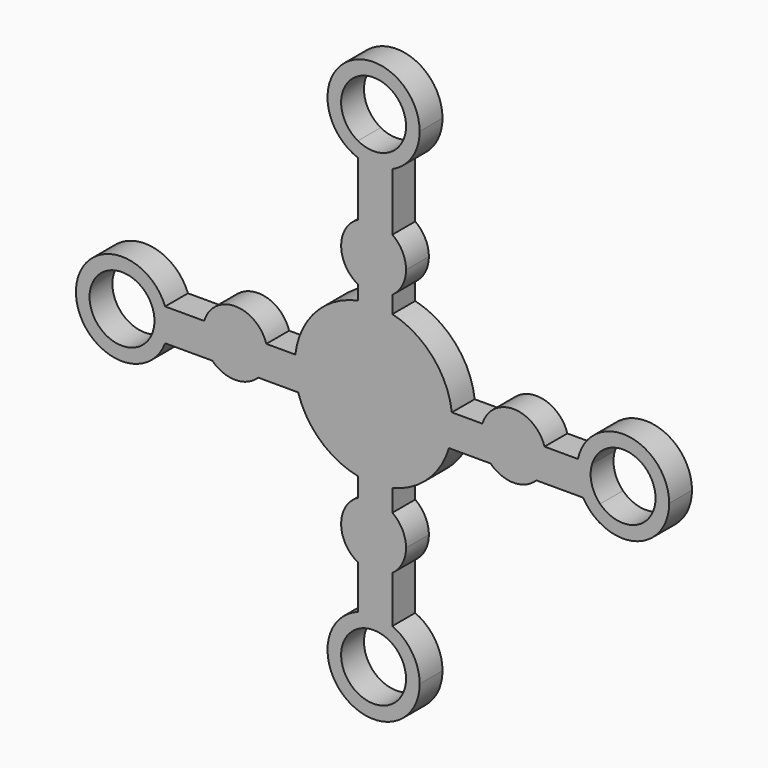
from build123d import *

# Parameters (mm, degrees)
F1_DEPTH = 7.874


with BuildPart() as f1:
    # F0 (on Front) → F1 (new body)
    with BuildSketch(Plane.XZ):
        with BuildLine():
            Line((-4.3170880526, 2.5902516209), (-4.3170880526, 0))
            Line((-4.3170880526, 0), (5.18050557, 0))
            Line((5.18050557, 0), (5.18050557, 2.5902516209))
            Line((5.18050557, 2.5902516209), (5.18050557, 21.1036454269))
            ThreePointArc((5.18050557, 21.1036454269), (0.4424065531, 21.7256936531), (-4.3170880526, 21.2970476595))
            Line((-4.3170880526, 21.2970476595), (-4.3170880526, 2.5902516209))
        make_face()
        with BuildLine():
            Line((-4.3170880526, -6.3317269087), (-4.3170880526, 0))
            Line((-4.3170880526, 0), (-4.3170880526, 2.5902516209))
            Line((-4.3170880526, 2.5902516209), (-21.5752655791, 2.5902516209))
            ThreePointArc((-21.5752655791, 2.5902516209), (-21.6459371683, -1.911777281), (-20.7872730925, -6.3317269087))
            Line((-20.7872730925, -6.3317269087), (-4.3170880526, -6.3317269087))
        make_face()
        with BuildLine():
            Line((5.18050557, 0), (-4.3170880526, 0))
            Line((-4.3170880526, 0), (-4.3170880526, -6.3317269087))
            Line((-4.3170880526, -6.3317269087), (-4.3170880526, -21.2970476595))
            ThreePointArc((-4.3170880526, -21.2970476595), (0.4424065531, -21.7256936531), (5.18050557, -21.1036454269))
            Line((5.18050557, -21.1036454269), (5.18050557, -6.3317269087))
            Line((5.18050557, -6.3317269087), (5.18050557, 0))
        make_face()
        with BuildLine():
            Line((5.18050557, 2.5902516209), (5.18050557, 0))
            Line((5.18050557, 0), (5.18050557, -6.3317269087))
            Line((5.18050557, -6.3317269087), (20.7872730925, -6.3317269087))
            ThreePointArc((20.7872730925, -6.3317269087), (21.4931738046, -3.2007761674), (21.7301976122, 0))
            ThreePointArc((21.7301976122, 0), (21.6914300224, 1.297440499), (21.5752655791, 2.5902516209))
            Line((21.5752655791, 2.5902516209), (5.18050557, 2.5902516209))
        make_face()
        with BuildLine():
            Line((-21.5752655791, 2.5902516209), (-4.3170880526, 2.5902516209))
            Line((-4.3170880526, 2.5902516209), (-4.3170880526, 21.2970476595))
            ThreePointArc((-4.3170880526, 21.2970476595), (-15.9715230537, 14.7347188508), (-21.5752655791, 2.5902516209))
        make_face()
        with BuildLine():
            Line((-4.3170880526, -21.2970476595), (-4.3170880526, -6.3317269087))
            Line((-4.3170880526, -6.3317269087), (-20.7872730925, -6.3317269087))
            ThreePointArc((-20.7872730925, -6.3317269087), (-14.6132625864, -16.0827250442), (-4.3170880526, -21.2970476595))
        make_face()
        with BuildLine():
            Line((5.18050557, 21.1036454269), (5.18050557, 2.5902516209))
            Line((5.18050557, 2.5902516209), (21.5752655791, 2.5902516209))
            ThreePointArc((21.5752655791, 2.5902516209), (16.2681978105, 14.4064995147), (5.18050557, 21.1036454269))
        make_face()
        with BuildLine():
            Line((20.7872730925, -6.3317269087), (5.18050557, -6.3317269087))
            Line((5.18050557, -6.3317269087), (5.18050557, -21.1036454269))
            ThreePointArc((5.18050557, -21.1036454269), (14.9376630148, -15.7818792266), (20.7872730925, -6.3317269087))
        make_face()
        with BuildLine():
            Line((-4.3170880526, 25.2618949621), (-4.3170880526, 21.2970476595))
            ThreePointArc((-4.3170880526, 21.2970476595), (0.4424065531, 21.7256936531), (5.18050557, 21.1036454269))
            Line((5.18050557, 21.1036454269), (5.18050557, 25.8039073839))
            ThreePointArc((5.18050557, 25.8039073839), (0.5097222957, 24.1658829253), (-4.3170880526, 25.2618949621))
        make_face()
        with BuildLine():
            ThreePointArc((-20.7872730925, -6.3317269087), (-21.6459371683, -1.911777281), (-21.5752655791, 2.5902516209))
            Line((-21.5752655791, 2.5902516209), (-29.5711408342, 2.5902516209))
            ThreePointArc((-29.5711408342, 2.5902516209), (-29.2842683913, 1.3092207994), (-29.1879529597, 0))
            ThreePointArc((-29.1879529597, 0), (-29.870502249, -3.4273494116), (-31.814001381, -6.3317269087))
            Line((-31.814001381, -6.3317269087), (-20.7872730925, -6.3317269087))
        make_face()
        with BuildLine():
            ThreePointArc((5.18050557, -21.1036454269), (0.4424065531, -21.7256936531), (-4.3170880526, -21.2970476595))
            Line((-4.3170880526, -21.2970476595), (-4.3170880526, -26.5570219367))
            ThreePointArc((-4.3170880526, -26.5570219367), (0.5097222957, -25.4610098999), (5.18050557, -27.0990343585))
            Line((5.18050557, -27.0990343585), (5.18050557, -21.1036454269))
        make_face()
        with BuildLine():
            Line((30.0028470318, 2.5902516209), (21.5752655791, 2.5902516209))
            ThreePointArc((21.5752655791, 2.5902516209), (21.6914300224, 1.297440499), (21.7301976122, 0))
            ThreePointArc((21.7301976122, 0), (21.4931738046, -3.2007761674), (20.7872730925, -6.3317269087))
            Line((20.7872730925, -6.3317269087), (32.2457075785, -6.3317269087))
            ThreePointArc((32.2457075785, -6.3317269087), (29.8896105664, -2.1811155839), (30.0028470318, 2.5902516209))
        make_face()
        with BuildLine():
            ThreePointArc((-4.3170880526, 40.9334291012), (-8.9463118, 33.0976620317), (-4.3170880526, 25.2618949621))
            Line((-4.3170880526, 25.2618949621), (-4.3170880526, 40.9334291012))
        make_face()
        with BuildLine():
            Line((-4.3170880526, 40.9334291012), (-4.3170880526, 25.2618949621))
            ThreePointArc((-4.3170880526, 25.2618949621), (0.5097222957, 24.1658829253), (5.18050557, 25.8039073839))
            Line((5.18050557, 25.8039073839), (5.18050557, 40.3914166794))
            ThreePointArc((5.18050557, 40.3914166794), (0.5097222957, 42.029441138), (-4.3170880526, 40.9334291012))
        make_face()
        with BuildLine():
            ThreePointArc((-29.1879529597, 0), (-29.2842683913, 1.3092207994), (-29.5711408342, 2.5902516209))
            Line((-29.5711408342, 2.5902516209), (-46.6973886852, 2.5902516209))
            ThreePointArc((-46.6973886852, 2.5902516209), (-46.8106251506, -2.1811155839), (-44.4545281385, -6.3317269087))
            Line((-44.4545281385, -6.3317269087), (-31.814001381, -6.3317269087))
            ThreePointArc((-31.814001381, -6.3317269087), (-29.870502249, -3.4273494116), (-29.1879529597, 0))
        make_face()
        with BuildLine():
            Line((-46.6973886852, 2.5902516209), (-29.5711408342, 2.5902516209))
            ThreePointArc((-29.5711408342, 2.5902516209), (-38.1342647597, 8.9463118), (-46.6973886852, 2.5902516209))
        make_face()
        with BuildLine():
            ThreePointArc((5.18050557, -27.0990343585), (0.5097222957, -25.4610098999), (-4.3170880526, -26.5570219367))
            Line((-4.3170880526, -26.5570219367), (-4.3170880526, -42.2285560758))
            ThreePointArc((-4.3170880526, -42.2285560758), (0.5097222957, -43.3245681126), (5.18050557, -41.686543654))
            Line((5.18050557, -41.686543654), (5.18050557, -27.0990343585))
        make_face()
        with BuildLine():
            Line((-4.3170880526, -42.2285560758), (-4.3170880526, -26.5570219367))
            ThreePointArc((-4.3170880526, -26.5570219367), (-8.9463118, -34.3927890062), (-4.3170880526, -42.2285560758))
        make_face()
        with BuildLine():
            ThreePointArc((-44.4545281385, -6.3317269087), (-38.1342647597, -8.9463118), (-31.814001381, -6.3317269087))
            Line((-31.814001381, -6.3317269087), (-44.4545281385, -6.3317269087))
        make_face()
        with BuildLine():
            Line((5.18050557, 40.3914166794), (5.18050557, 25.8039073839))
            ThreePointArc((5.18050557, 25.8039073839), (7.9493054078, 28.9933912857), (8.9463118, 33.0976620317))
            ThreePointArc((8.9463118, 33.0976620317), (7.9493054078, 37.2019327776), (5.18050557, 40.3914166794))
        make_face()
        with BuildLine():
            ThreePointArc((47.1290948828, 2.5902516209), (38.5659709573, 8.9463118), (30.0028470318, 2.5902516209))
            Line((30.0028470318, 2.5902516209), (47.1290948828, 2.5902516209))
        make_face()
        with BuildLine():
            Line((47.1290948828, 2.5902516209), (30.0028470318, 2.5902516209))
            ThreePointArc((30.0028470318, 2.5902516209), (29.8896105664, -2.1811155839), (32.2457075785, -6.3317269087))
            Line((32.2457075785, -6.3317269087), (44.886234336, -6.3317269087))
            ThreePointArc((44.886234336, -6.3317269087), (46.829733468, -3.4273494116), (47.5122827573, 0))
            ThreePointArc((47.5122827573, 0), (47.4159673257, 1.3092207994), (47.1290948828, 2.5902516209))
        make_face()
        with BuildLine():
            ThreePointArc((8.9463118, -34.3927890062), (7.9493054078, -30.2885182603), (5.18050557, -27.0990343585))
            Line((5.18050557, -27.0990343585), (5.18050557, -41.686543654))
            ThreePointArc((5.18050557, -41.686543654), (7.9493054078, -38.4970597522), (8.9463118, -34.3927890062))
        make_face()
        with BuildLine():
            Line((44.886234336, -6.3317269087), (32.2457075785, -6.3317269087))
            ThreePointArc((32.2457075785, -6.3317269087), (38.5659709573, -8.9463118), (44.886234336, -6.3317269087))
        make_face()
        with BuildLine():
            Line((-4.3170880526, 55.9784273321), (-4.3170880526, 40.9334291012))
            ThreePointArc((-4.3170880526, 40.9334291012), (0.5097222957, 42.029441138), (5.18050557, 40.3914166794))
            Line((5.18050557, 40.3914166794), (5.18050557, 56.3268005249))
            ThreePointArc((5.18050557, 56.3268005249), (0.4655248895, 55.2306949218), (-4.3170880526, 55.9784273321))
        make_face()
        with BuildLine():
            ThreePointArc((-44.4545281385, -6.3317269087), (-46.8106251506, -2.1811155839), (-46.6973886852, 2.5902516209))
            Line((-46.6973886852, 2.5902516209), (-57.4704526884, 2.5902516209))
            ThreePointArc((-57.4704526884, 2.5902516209), (-56.8651414964, 0.3961619644), (-56.6611875176, -1.8707376439))
            ThreePointArc((-56.6611875176, -1.8707376439), (-56.8651414964, -4.1376372522), (-57.4704526884, -6.3317269087))
            Line((-57.4704526884, -6.3317269087), (-44.4545281385, -6.3317269087))
        make_face()
        with BuildLine():
            ThreePointArc((5.18050557, -41.686543654), (0.5097222957, -43.3245681126), (-4.3170880526, -42.2285560758))
            Line((-4.3170880526, -42.2285560758), (-4.3170880526, -54.2515913659))
            ThreePointArc((-4.3170880526, -54.2515913659), (0.4655248895, -53.5038589557), (5.18050557, -54.5999645588))
            Line((5.18050557, -54.5999645588), (5.18050557, -41.686543654))
        make_face()
        with BuildLine():
            Line((56.3525334722, 2.5902516209), (47.1290948828, 2.5902516209))
            ThreePointArc((47.1290948828, 2.5902516209), (47.4159673257, 1.3092207994), (47.5122827573, 0))
            ThreePointArc((47.5122827573, 0), (46.829733468, -3.4273494116), (44.886234336, -6.3317269087))
            Line((44.886234336, -6.3317269087), (57.7765256303, -6.3317269087))
            ThreePointArc((57.7765256303, -6.3317269087), (56.2443100442, -2.0016487576), (56.3525334722, 2.5902516209))
        make_face()
        with BuildLine():
            ThreePointArc((12.7, 67.9221600294), (-7.2959914245, 78.3172795157), (-4.3170880526, 55.9784273321))
            Line((-4.3170880526, 55.9784273321), (-4.3170880526, 60.0863929598))
            ThreePointArc((-4.3170880526, 60.0863929598), (-4.5505207963, 75.6247086534), (8.9463118, 67.9221600294))
            ThreePointArc((8.9463118, 67.9221600294), (7.9493054078, 63.8178892835), (5.18050557, 60.6284053816))
            Line((5.18050557, 60.6284053816), (5.18050557, 56.3268005249))
            ThreePointArc((5.18050557, 56.3268005249), (10.6555717993, 61.0121101287), (12.7, 67.9221600294))
        make_face()
        with BuildLine():
            Line((-4.3170880526, 60.0863929598), (-4.3170880526, 55.9784273321))
            ThreePointArc((-4.3170880526, 55.9784273321), (0.4655248895, 55.2306949218), (5.18050557, 56.3268005249))
            Line((5.18050557, 56.3268005249), (5.18050557, 60.6284053816))
            ThreePointArc((5.18050557, 60.6284053816), (0.5097222957, 58.9903809231), (-4.3170880526, 60.0863929598))
        make_face()
        with BuildLine():
            ThreePointArc((-56.6611875176, -1.8707376439), (-56.8651414964, 0.3961619644), (-57.4704526884, 2.5902516209))
            Line((-57.4704526884, 2.5902516209), (-61.6064359556, 2.5902516209))
            ThreePointArc((-61.6064359556, 2.5902516209), (-60.7178933915, 0.4379554188), (-60.4148700066, -1.8707376439))
            ThreePointArc((-60.4148700066, -1.8707376439), (-60.7178933915, -4.1794307066), (-61.6064359556, -6.3317269087))
            Line((-61.6064359556, -6.3317269087), (-57.4704526884, -6.3317269087))
            ThreePointArc((-57.4704526884, -6.3317269087), (-56.8651414964, -4.1376372522), (-56.6611875176, -1.8707376439))
        make_face()
        with BuildLine():
            Line((-61.6064359556, 2.5902516209), (-57.4704526884, 2.5902516209))
            ThreePointArc((-57.4704526884, 2.5902516209), (-82.0611875176, -1.8707376439), (-57.4704526884, -6.3317269087))
            Line((-57.4704526884, -6.3317269087), (-61.6064359556, -6.3317269087))
            ThreePointArc((-61.6064359556, -6.3317269087), (-78.3075050287, -1.8707376439), (-61.6064359556, 2.5902516209))
        make_face()
        with BuildLine():
            ThreePointArc((5.18050557, -54.5999645588), (0.4655248895, -53.5038589557), (-4.3170880526, -54.2515913659))
            Line((-4.3170880526, -54.2515913659), (-4.3170880526, -58.3595569937))
            ThreePointArc((-4.3170880526, -58.3595569937), (0.5097222957, -57.263544957), (5.18050557, -58.9015694155))
            Line((5.18050557, -58.9015694155), (5.18050557, -54.5999645588))
        make_face()
        with BuildLine():
            Line((-4.3170880526, -58.3595569937), (-4.3170880526, -54.2515913659))
            ThreePointArc((-4.3170880526, -54.2515913659), (-7.2959914245, -76.5904435496), (12.7, -66.1953240633))
            ThreePointArc((12.7, -66.1953240633), (10.6555717993, -59.2852741626), (5.18050557, -54.5999645588))
            Line((5.18050557, -54.5999645588), (5.18050557, -58.9015694155))
            ThreePointArc((5.18050557, -58.9015694155), (7.9493054078, -62.0910533174), (8.9463118, -66.1953240633))
            ThreePointArc((8.9463118, -66.1953240633), (-4.5505207963, -73.8978726873), (-4.3170880526, -58.3595569937))
        make_face()
        with BuildLine():
            ThreePointArc((81.4855780125, 0), (70.0875638685, 12.6330848501), (56.3525334722, 2.5902516209))
            Line((56.3525334722, 2.5902516209), (60.222454087, 2.5902516209))
            ThreePointArc((60.222454087, 2.5902516209), (70.0947988119, 8.8499963684), (77.7318898125, 0))
            ThreePointArc((77.7318898125, 0), (72.2129274241, -8.2637625107), (62.4653146337, -6.3317269087))
            Line((62.4653146337, -6.3317269087), (57.7765256303, -6.3317269087))
            ThreePointArc((57.7765256303, -6.3317269087), (72.0623931389, -12.2699829921), (81.4855780125, 0))
        make_face()
        with BuildLine():
            Line((60.222454087, 2.5902516209), (56.3525334722, 2.5902516209))
            ThreePointArc((56.3525334722, 2.5902516209), (56.2443100442, -2.0016487576), (57.7765256303, -6.3317269087))
            Line((57.7765256303, -6.3317269087), (62.4653146337, -6.3317269087))
            ThreePointArc((62.4653146337, -6.3317269087), (60.1092176216, -2.1811155839), (60.222454087, 2.5902516209))
        make_face()
    extrude(amount=F1_DEPTH)


solid = f1.part
